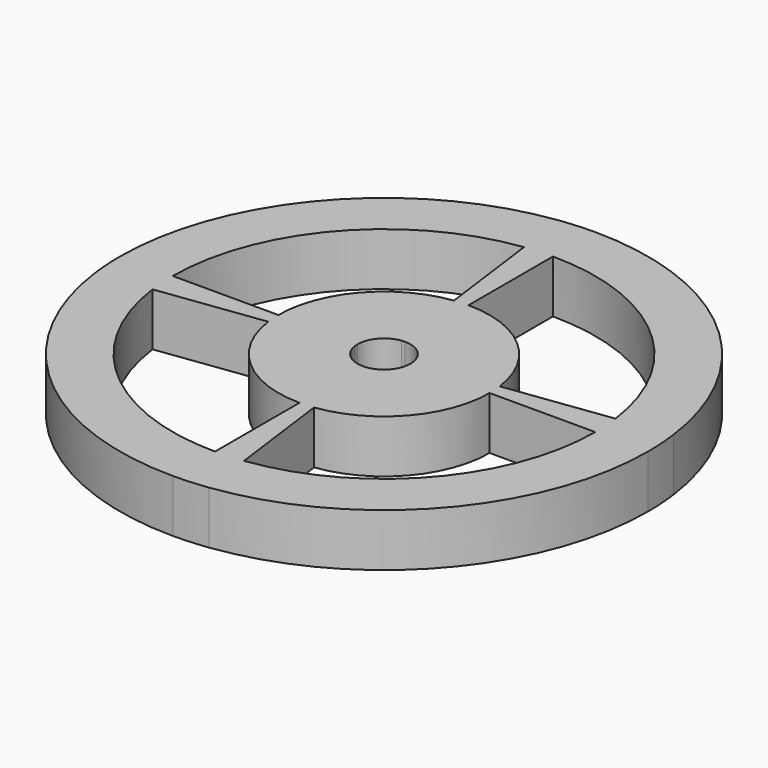
from build123d import *

# Parameters (mm, degrees)
F1_DEPTH = 3.175


with BuildPart() as f1:
    # F0 (on Top) → F1 (new body)
    with BuildSketch(Plane.XY):
        with BuildLine():
            ThreePointArc((-6.35, 0), (-6.3364041626, -0.4153098706), (-6.2956748697, -0.8288413206))
            Line((-6.2956748697, -0.8288413206), (-1.5739187174, -0.2072103301))
            ThreePointArc((-1.5739187174, -0.2072103301), (-1.5841010406, -0.1038274677), (-1.5875, 0))
            Line((-1.5875, 0), (-6.35, 0))
        make_face()
        with BuildLine():
            ThreePointArc((-15.875, 0), (-15.8410104064, -1.0382746765), (-15.7391871743, -2.0721033015))
            Line((-15.7391871743, -2.0721033015), (-12.5913497394, -1.6576826412))
            ThreePointArc((-12.5913497394, -1.6576826412), (-12.6728083251, -0.8306197412), (-12.7, 0))
            Line((-12.7, 0), (-15.875, 0))
        make_face()
        with BuildLine():
            ThreePointArc((0, -6.35), (0.4153098706, -6.3364041626), (0.8288413206, -6.2956748697))
            Line((0.8288413206, -6.2956748697), (0.2072103301, -1.5739187174))
            ThreePointArc((0.2072103301, -1.5739187174), (0.1038274677, -1.5841010406), (0, -1.5875))
            Line((0, -1.5875), (0, -6.35))
        make_face()
        with BuildLine():
            Line((0, 1.5875), (0, 6.35))
            ThreePointArc((0, 6.35), (-0.4153098706, 6.3364041626), (-0.8288413206, 6.2956748697))
            Line((-0.8288413206, 6.2956748697), (-0.2072103301, 1.5739187174))
            ThreePointArc((-0.2072103301, 1.5739187174), (-0.1038274677, 1.5841010406), (0, 1.5875))
        make_face()
        with BuildLine():
            Line((1.5875, 0), (6.35, 0))
            ThreePointArc((6.35, 0), (6.3364041626, 0.4153098706), (6.2956748697, 0.8288413206))
            Line((6.2956748697, 0.8288413206), (1.5739187174, 0.2072103301))
            ThreePointArc((1.5739187174, 0.2072103301), (1.5841010406, 0.1038274677), (1.5875, 0))
        make_face()
        with BuildLine():
            ThreePointArc((-15.7391871743, -2.0721033015), (-10.4671148147, -11.9354569437), (0, -15.875))
            Line((0, -15.875), (0, -12.7))
            ThreePointArc((0, -12.7), (-8.3736918518, -9.548365555), (-12.5913497394, -1.6576826412))
            Line((-12.5913497394, -1.6576826412), (-15.7391871743, -2.0721033015))
        make_face()
        with BuildLine():
            Line((-1.6576826412, 12.5913497394), (-2.0721033015, 15.7391871743))
            ThreePointArc((-2.0721033015, 15.7391871743), (-11.9354569437, 10.4671148147), (-15.875, 0))
            Line((-15.875, 0), (-12.7, 0))
            ThreePointArc((-12.7, 0), (-9.548365555, 8.3736918518), (-1.6576826412, 12.5913497394))
        make_face()
        with BuildLine():
            Line((12.5913497394, 1.6576826412), (15.7391871743, 2.0721033015))
            ThreePointArc((15.7391871743, 2.0721033015), (10.4671148147, 11.9354569437), (0, 15.875))
            Line((0, 15.875), (0, 12.7))
            ThreePointArc((0, 12.7), (8.3736918518, 9.548365555), (12.5913497394, 1.6576826412))
        make_face()
        with BuildLine():
            ThreePointArc((2.0721033015, -15.7391871743), (11.9354569437, -10.4671148147), (15.875, 0))
            Line((15.875, 0), (12.7, 0))
            ThreePointArc((12.7, 0), (9.548365555, -8.3736918518), (1.6576826412, -12.5913497394))
            Line((1.6576826412, -12.5913497394), (2.0721033015, -15.7391871743))
        make_face()
        with BuildLine():
            ThreePointArc((0, -15.875), (1.0382746765, -15.8410104064), (2.0721033015, -15.7391871743))
            Line((2.0721033015, -15.7391871743), (1.6576826412, -12.5913497394))
            ThreePointArc((1.6576826412, -12.5913497394), (0.8306197412, -12.6728083251), (0, -12.7))
            Line((0, -12.7), (0, -15.875))
        make_face()
        with BuildLine():
            Line((12.7, 0), (15.875, 0))
            ThreePointArc((15.875, 0), (15.8410104064, 1.0382746765), (15.7391871743, 2.0721033015))
            Line((15.7391871743, 2.0721033015), (12.5913497394, 1.6576826412))
            ThreePointArc((12.5913497394, 1.6576826412), (12.6728083251, 0.8306197412), (12.7, 0))
        make_face()
        with BuildLine():
            Line((0, 12.7), (0, 15.875))
            ThreePointArc((0, 15.875), (-1.0382746765, 15.8410104064), (-2.0721033015, 15.7391871743))
            Line((-2.0721033015, 15.7391871743), (-1.6576826412, 12.5913497394))
            ThreePointArc((-1.6576826412, 12.5913497394), (-0.8306197412, 12.6728083251), (0, 12.7))
        make_face()
        with BuildLine():
            ThreePointArc((-12.7, 0), (-12.6728083251, -0.8306197412), (-12.5913497394, -1.6576826412))
            Line((-12.5913497394, -1.6576826412), (-6.2956748697, -0.8288413206))
            ThreePointArc((-6.2956748697, -0.8288413206), (-6.3364041626, -0.4153098706), (-6.35, 0))
            Line((-6.35, 0), (-12.7, 0))
        make_face()
        with BuildLine():
            ThreePointArc((-6.2956748697, -0.8288413206), (-4.1868459259, -4.7741827775), (0, -6.35))
            Line((0, -6.35), (0, -1.5875))
            ThreePointArc((0, -1.5875), (-1.0467114815, -1.1935456944), (-1.5739187174, -0.2072103301))
            Line((-1.5739187174, -0.2072103301), (-6.2956748697, -0.8288413206))
        make_face()
        with BuildLine():
            ThreePointArc((0.8288413206, -6.2956748697), (4.7741827775, -4.1868459259), (6.35, 0))
            Line((6.35, 0), (1.5875, 0))
            ThreePointArc((1.5875, 0), (1.1935456944, -1.0467114815), (0.2072103301, -1.5739187174))
            Line((0.2072103301, -1.5739187174), (0.8288413206, -6.2956748697))
        make_face()
        with BuildLine():
            Line((1.5739187174, 0.2072103301), (6.2956748697, 0.8288413206))
            ThreePointArc((6.2956748697, 0.8288413206), (4.1868459259, 4.7741827775), (0, 6.35))
            Line((0, 6.35), (0, 1.5875))
            ThreePointArc((0, 1.5875), (1.0467114815, 1.1935456944), (1.5739187174, 0.2072103301))
        make_face()
        with BuildLine():
            Line((-0.2072103301, 1.5739187174), (-0.8288413206, 6.2956748697))
            ThreePointArc((-0.8288413206, 6.2956748697), (-4.7741827775, 4.1868459259), (-6.35, 0))
            Line((-6.35, 0), (-1.5875, 0))
            ThreePointArc((-1.5875, 0), (-1.1935456944, 1.0467114815), (-0.2072103301, 1.5739187174))
        make_face()
        with BuildLine():
            Line((0, 6.35), (0, 12.7))
            ThreePointArc((0, 12.7), (-0.8306197412, 12.6728083251), (-1.6576826412, 12.5913497394))
            Line((-1.6576826412, 12.5913497394), (-0.8288413206, 6.2956748697))
            ThreePointArc((-0.8288413206, 6.2956748697), (-0.4153098706, 6.3364041626), (0, 6.35))
        make_face()
        with BuildLine():
            Line((6.35, 0), (12.7, 0))
            ThreePointArc((12.7, 0), (12.6728083251, 0.8306197412), (12.5913497394, 1.6576826412))
            Line((12.5913497394, 1.6576826412), (6.2956748697, 0.8288413206))
            ThreePointArc((6.2956748697, 0.8288413206), (6.3364041626, 0.4153098706), (6.35, 0))
        make_face()
        with BuildLine():
            ThreePointArc((0, -12.7), (0.8306197412, -12.6728083251), (1.6576826412, -12.5913497394))
            Line((1.6576826412, -12.5913497394), (0.8288413206, -6.2956748697))
            ThreePointArc((0.8288413206, -6.2956748697), (0.4153098706, -6.3364041626), (0, -6.35))
            Line((0, -6.35), (0, -12.7))
        make_face()
    extrude(amount=F1_DEPTH)


solid = f1.part
